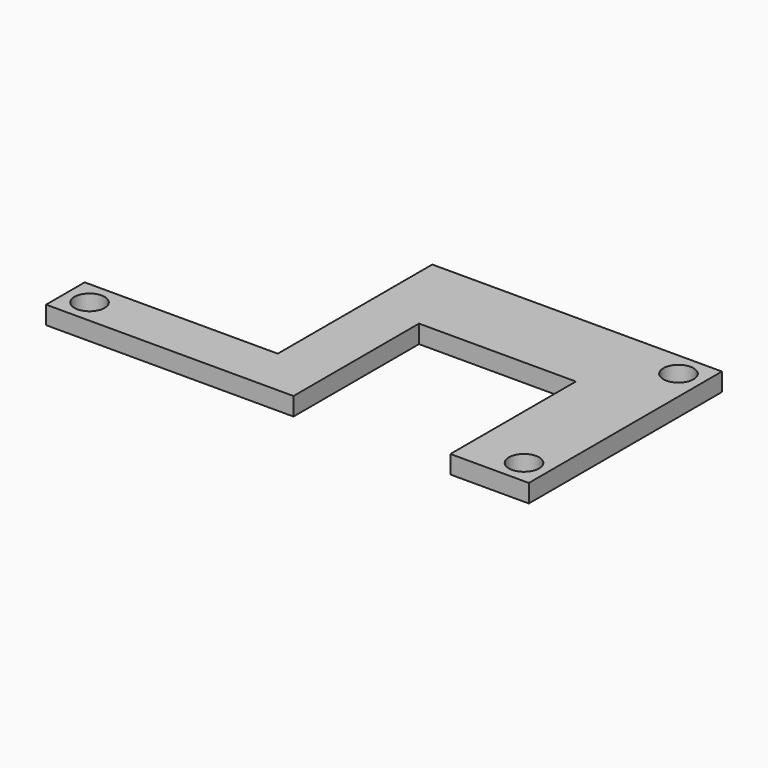
from build123d import *

# Parameters (mm, degrees)
F0_R     = 2.5
F1_DEPTH = 3


with BuildPart() as f1:
    # F0 (on Top) → F1 (new body)
    with BuildSketch(Plane.XY):
        Polygon((0, 8), (0, 0), (41, 0), (41, 26), (67, 26), (67, 0), (80, 0), (80, 40), (32, 40), (32, 8), align=None)
        with Locations((4, 4)):
            Circle(F0_R, mode=Mode.SUBTRACT)
        with Locations((76, 4)):
            Circle(F0_R, mode=Mode.SUBTRACT)
        with Locations((76, 36)):
            Circle(F0_R, mode=Mode.SUBTRACT)
    extrude(amount=F1_DEPTH)


solid = f1.part
